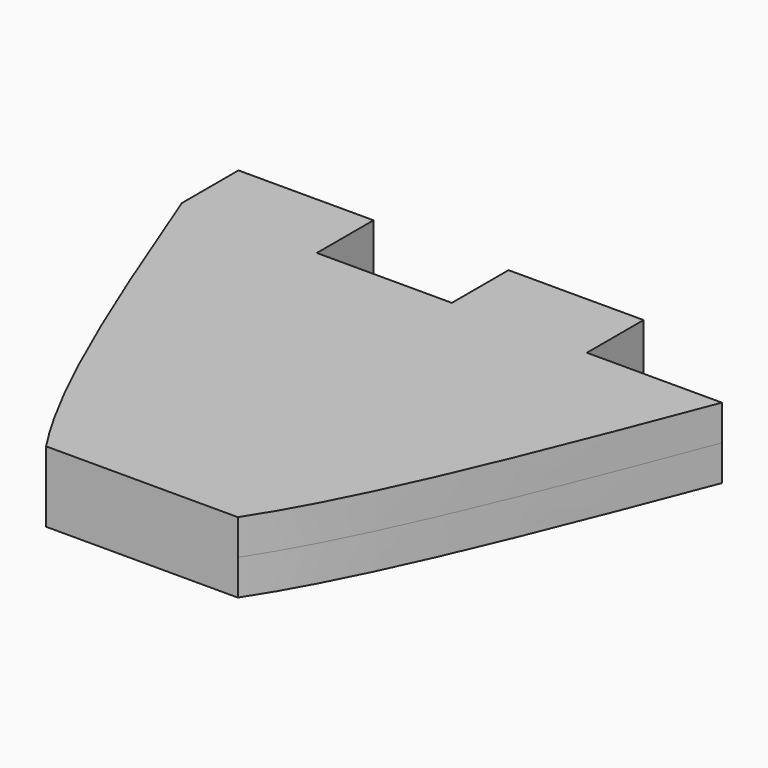
from build123d import *

# Parameters (mm, degrees)
F1_DEPTH = 1.6


with BuildPart() as f1:
    # F0 (on Top) → F1 (new body, symmetric)
    with BuildSketch(Plane.XY):
        with BuildLine():
            Line((-12.2, 3.2), (-12.2, 0))
            add(Edge.make_bspline(
                [(-12.2, 0), (-9.5769935198, -6.7725167316), (-6.9539870396, -13.5450334632), (-4.3309805594, -17.5)],
                knots=[0, 0, 0, 0, 0.3225007967, 0.3225007967, 0.3225007967, 0.3225007967], degree=3))
            Line((-4.3309805594, -17.5), (4.3309805594, -17.5))
            add(Edge.make_bspline(
                [(4.3309805594, -17.5), (6.9539870396, -13.5450334632), (9.5769935198, -6.7725167316), (12.2, 0)],
                knots=[0.6774992033, 0.6774992033, 0.6774992033, 0.6774992033, 1, 1, 1, 1], degree=3))
            Line((12.2, 0), (6.1, 0))
            Line((6.1, 0), (6.1, 3.2))
            Line((6.1, 3.2), (0, 3.2))
            Line((0, 3.2), (0, 0))
            Line((0, 0), (-6.1, 0))
            Line((-6.1, 0), (-6.1, 3.2))
            Line((-6.1, 3.2), (-12.2, 3.2))
        make_face()
    extrude(amount=F1_DEPTH, both=True)


solid = f1.part
